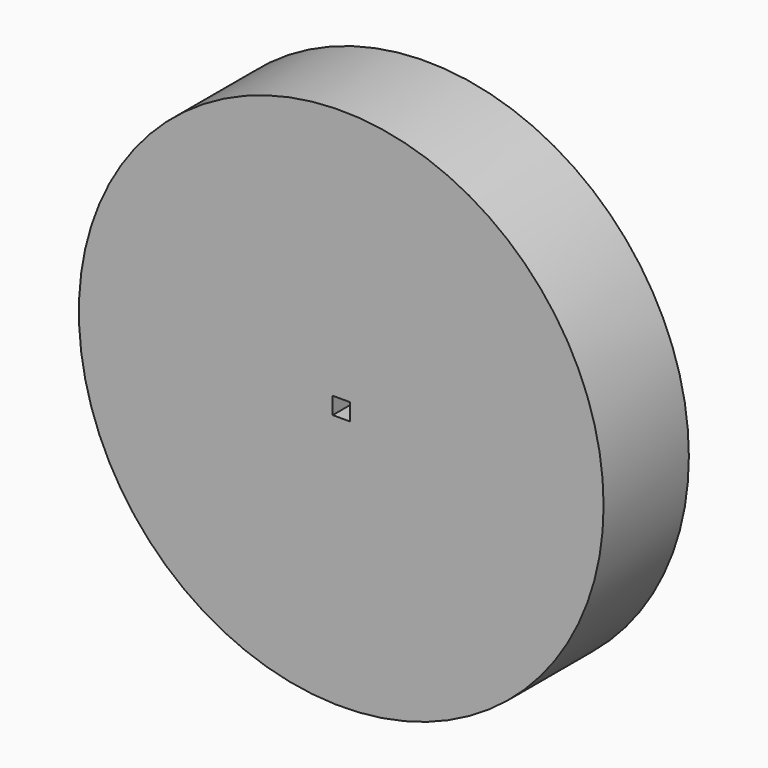
from build123d import *

# Parameters (mm, degrees)
F0_R     = 50.8
F0_W     = 3.302
F0_H     = 3.302
F1_DEPTH = 20.6375


with BuildPart() as f1:
    # F0 (on Front) → F1 (new body)
    with BuildSketch(Plane.XZ):
        Circle(F0_R)
        Rectangle(F0_W, F0_H, mode=Mode.SUBTRACT)
    extrude(amount=F1_DEPTH)


solid = f1.part
